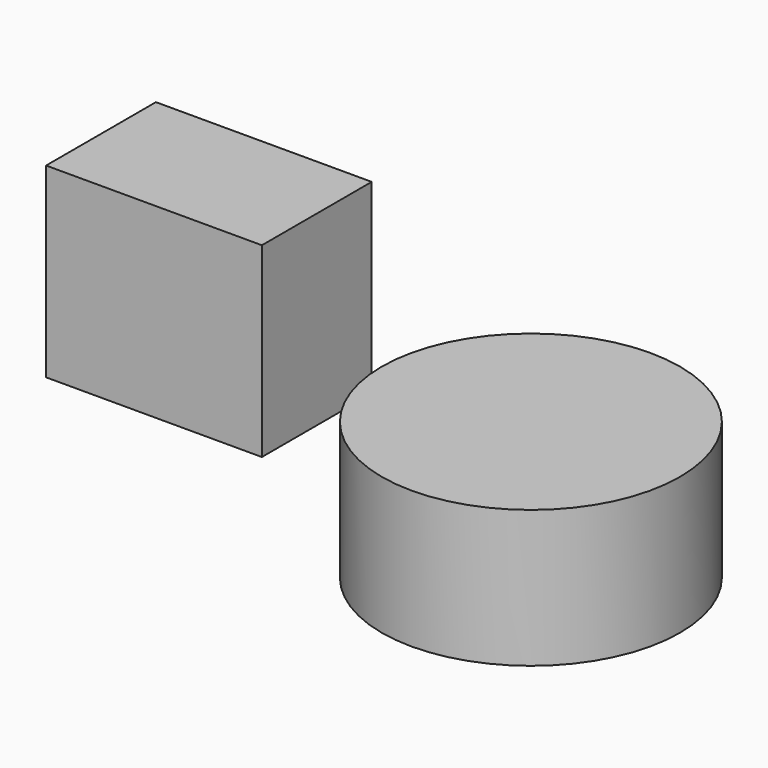
from build123d import *

# Parameters (mm, degrees)
F0_W     = 39.929242
F0_H     = 34.502959
F1_DEPTH = 25.4
F2_R     = 27.60092
F3_DEPTH = 25.4


with BuildPart() as f1:
    # F0 (on Front) → F1 (new body)
    with BuildSketch(Plane.XZ):
        with Locations((-28.553612, 37.642122)):
            Rectangle(F0_W, F0_H)
    extrude(amount=F1_DEPTH)


with BuildPart() as f3:
    # F2 (on Top) → F3 (new body)
    with BuildSketch(Plane.XY):
        with Locations((20.864921, 0)):
            Circle(F2_R)
    extrude(amount=F3_DEPTH)


solid = Compound([f1.part, f3.part])
